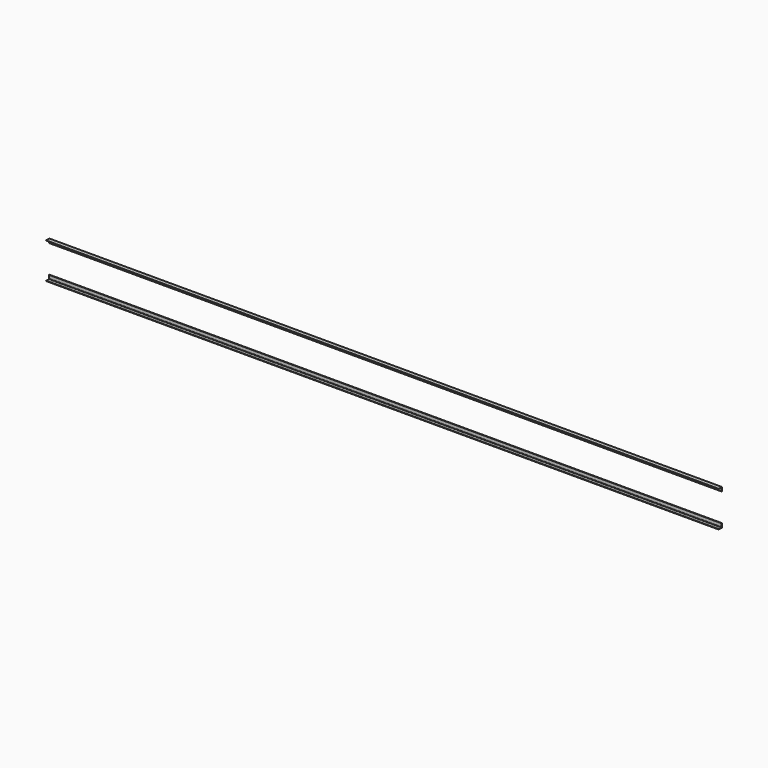
from build123d import *

# Parameters (mm, degrees)
EXTRUDE017_DEPTH = 15000
EXTRUDE018_DEPTH = 15000


with BuildPart() as extrude017:
    # AngleSteel004 → Extrude017 (new body)
    with BuildSketch(Plane(origin=(0, 53.415282, 39.015282), x_dir=(0, 1, 0), z_dir=(-1, 0, 0))):
        with BuildLine():
            Line((-24.615282, 24.615282), (-24.615282, -65.384718))
            Line((-24.615282, -65.384718), (-22.615282, -65.384718))
            ThreePointArc((-22.615282, -65.384718), (-19.079748, -63.920252), (-17.615282, -60.384718))
            Line((-17.615282, -60.384718), (-17.615282, 7.615282))
            ThreePointArc((-17.615282, 7.615282), (-14.68635, 14.68635), (-7.615282, 17.615282))
            Line((-7.615282, 17.615282), (60.384718, 17.615282))
            ThreePointArc((60.384718, 17.615282), (63.920252, 19.079748), (65.384718, 22.615282))
            Line((65.384718, 22.615282), (65.384718, 24.615282))
            Line((65.384718, 24.615282), (-24.615282, 24.615282))
        make_face()
    extrude(amount=-EXTRUDE017_DEPTH)


with BuildPart() as fusion001:
    # Mirror → Extrude018 (new body)
    with BuildSketch(Plane(origin=(0, 53.415282, 789.777402), x_dir=(0, -1, 0), z_dir=(1, 0, 0))):
        with BuildLine():
            Line((24.615282, -24.615282), (24.615282, 65.384718))
            Line((24.615282, 65.384718), (22.615282, 65.384718))
            ThreePointArc((22.615282, 65.384718), (19.079748, 63.920252), (17.615282, 60.384718))
            Line((17.615282, 60.384718), (17.615282, -7.615282))
            ThreePointArc((17.615282, -7.615282), (14.68635, -14.68635), (7.615282, -17.615282))
            Line((7.615282, -17.615282), (-60.384718, -17.615282))
            ThreePointArc((-60.384718, -17.615282), (-63.920252, -19.079748), (-65.384718, -22.615282))
            Line((-65.384718, -22.615282), (-65.384718, -24.615282))
            Line((-65.384718, -24.615282), (24.615282, -24.615282))
        make_face()
    extrude(amount=EXTRUDE018_DEPTH)

    # Fusion001: union Extrude017
    add(extrude017.part)


with BuildPart() as fusion_mirrored:
    # Mirror001: instance of Fusion001
    add(fusion001.part.mirror(Plane(origin=(0, 28.796342, 514.396342), x_dir=(-1, 0, 0), z_dir=(0, -1, 0))))


with BuildPart() as fusion_mirrored_1:
    # Mirror001 placement: moved
    add(fusion_mirrored.part.moved(Location((0, -6, 0))))


solid = fusion_mirrored_1.part
